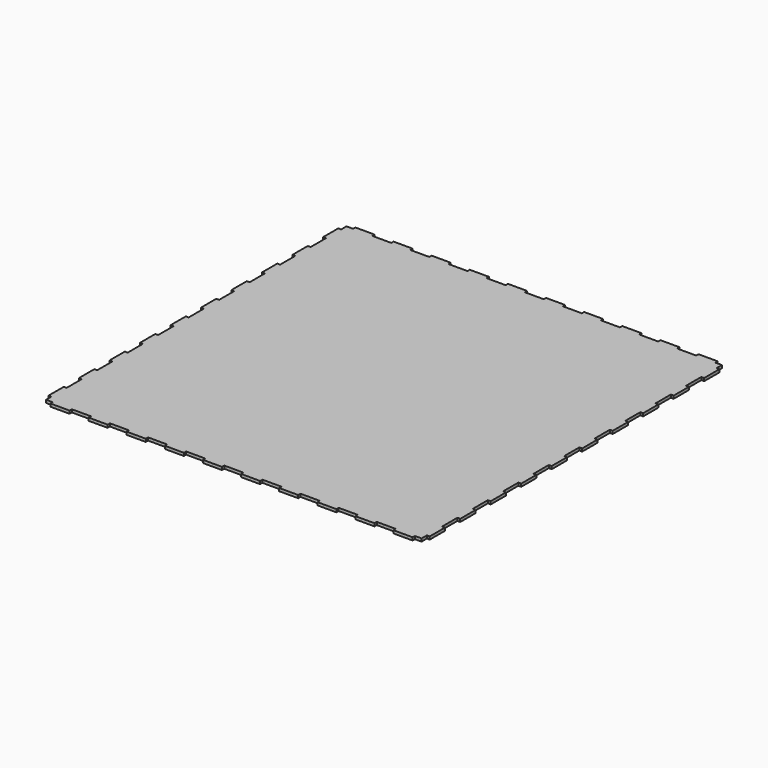
from build123d import *

# Parameters (mm, degrees)
F0_W     = 394
F0_H     = 394
F1_DEPTH = 3
F2_W     = 20
F2_H     = 3
F2_W_2   = 3
F2_H_2   = 20
F3_DEPTH = 3


with BuildPart() as f1:
    # F0 (on Top) → F1 (new body)
    with BuildSketch(Plane.XY):
        Rectangle(F0_W, F0_H)
    extrude(amount=F1_DEPTH)

    # F2 (on face) → F3 (join, through all)
    with BuildSketch(Plane.XY.offset(3)):
        with Locations((-180, -198.5)):
            Rectangle(F2_W, F2_H)
        with Locations((-140, -198.5)):
            Rectangle(F2_W, F2_H)
        with Locations((-100, -198.5)):
            Rectangle(F2_W, F2_H)
        with Locations((-60, -198.5)):
            Rectangle(F2_W, F2_H)
        with Locations((-20, -198.5)):
            Rectangle(F2_W, F2_H)
        with Locations((20, -198.5)):
            Rectangle(F2_W, F2_H)
        with Locations((60, -198.5)):
            Rectangle(F2_W, F2_H)
        with Locations((100, -198.5)):
            Rectangle(F2_W, F2_H)
        with Locations((140, -198.5)):
            Rectangle(F2_W, F2_H)
        with Locations((180, -198.5)):
            Rectangle(F2_W, F2_H)
        with Locations((198.5, 20)):
            Rectangle(F2_W_2, F2_H_2)
        with Locations((198.5, 180)):
            Rectangle(F2_W_2, F2_H_2)
        with Locations((198.5, -100)):
            Rectangle(F2_W_2, F2_H_2)
        with Locations((198.5, -140)):
            Rectangle(F2_W_2, F2_H_2)
        with Locations((198.5, 60)):
            Rectangle(F2_W_2, F2_H_2)
        with Locations((198.5, -20)):
            Rectangle(F2_W_2, F2_H_2)
        with Locations((198.5, 140)):
            Rectangle(F2_W_2, F2_H_2)
        with Locations((198.5, -60)):
            Rectangle(F2_W_2, F2_H_2)
        with Locations((198.5, 100)):
            Rectangle(F2_W_2, F2_H_2)
        with Locations((198.5, -180)):
            Rectangle(F2_W_2, F2_H_2)
        with Locations((-20, 198.5)):
            Rectangle(F2_W, F2_H)
        with Locations((-180, 198.5)):
            Rectangle(F2_W, F2_H)
        with Locations((100, 198.5)):
            Rectangle(F2_W, F2_H)
        with Locations((140, 198.5)):
            Rectangle(F2_W, F2_H)
        with Locations((-60, 198.5)):
            Rectangle(F2_W, F2_H)
        with Locations((20, 198.5)):
            Rectangle(F2_W, F2_H)
        with Locations((-140, 198.5)):
            Rectangle(F2_W, F2_H)
        with Locations((60, 198.5)):
            Rectangle(F2_W, F2_H)
        with Locations((-100, 198.5)):
            Rectangle(F2_W, F2_H)
        with Locations((180, 198.5)):
            Rectangle(F2_W, F2_H)
        with Locations((-198.5, -20)):
            Rectangle(F2_W_2, F2_H_2)
        with Locations((-198.5, -180)):
            Rectangle(F2_W_2, F2_H_2)
        with Locations((-198.5, 100)):
            Rectangle(F2_W_2, F2_H_2)
        with Locations((-198.5, 140)):
            Rectangle(F2_W_2, F2_H_2)
        with Locations((-198.5, -60)):
            Rectangle(F2_W_2, F2_H_2)
        with Locations((-198.5, 20)):
            Rectangle(F2_W_2, F2_H_2)
        with Locations((-198.5, -140)):
            Rectangle(F2_W_2, F2_H_2)
        with Locations((-198.5, 60)):
            Rectangle(F2_W_2, F2_H_2)
        with Locations((-198.5, -100)):
            Rectangle(F2_W_2, F2_H_2)
        with Locations((-198.5, 180)):
            Rectangle(F2_W_2, F2_H_2)
    extrude(amount=-F3_DEPTH)


solid = f1.part
